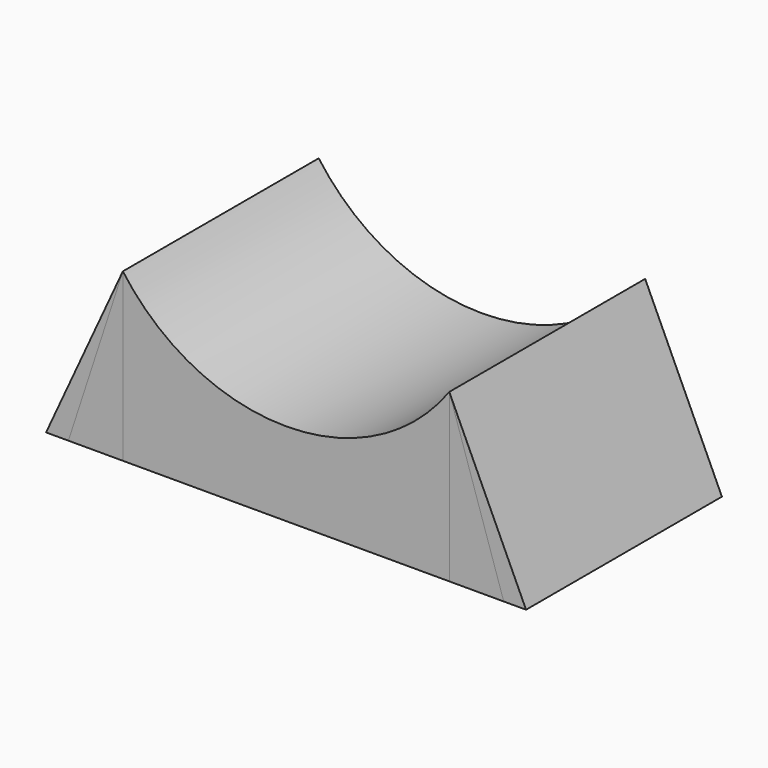
from build123d import *

# Parameters (mm, degrees)
F1_DEPTH = 60
F2_DEPTH = 60
F3_DEPTH = 60


with BuildPart() as f1:
    # F0 (on Front) → F1 (new body)
    with BuildSketch(Plane.XZ):
        with BuildLine():
            Line((-40, -20.43877), (40, -20.43877))
            Line((40, -20.43877), (40, 20.43877))
            ThreePointArc((40, 20.43877), (0, 0), (-40, 20.43877))
            Line((-40, 20.43877), (-40, -20.43877))
        make_face()
    extrude(amount=-F1_DEPTH)


with BuildPart() as f2:
    # F0 (on Front) → F2 (new body)
    with BuildSketch(Plane.XZ):
        Polygon((-53.342666, -20.43877), (-40, 20.43877), (-58.815598, -20.43877), align=None)
        Polygon((58.815598, -20.43877), (40, 20.43877), (53.342666, -20.43877), align=None)
    extrude(amount=-F2_DEPTH)


with BuildPart() as f3:
    # F0 (on Front) → F3 (new body)
    with BuildSketch(Plane.XZ):
        Polygon((-53.342666, -20.43877), (-40, -20.43877), (-40, 20.43877), align=None)
        Polygon((40, 20.43877), (40, -20.43877), (53.342666, -20.43877), align=None)
    extrude(amount=-F3_DEPTH)


solid = Compound([f1.part, f2.part, f3.part])
